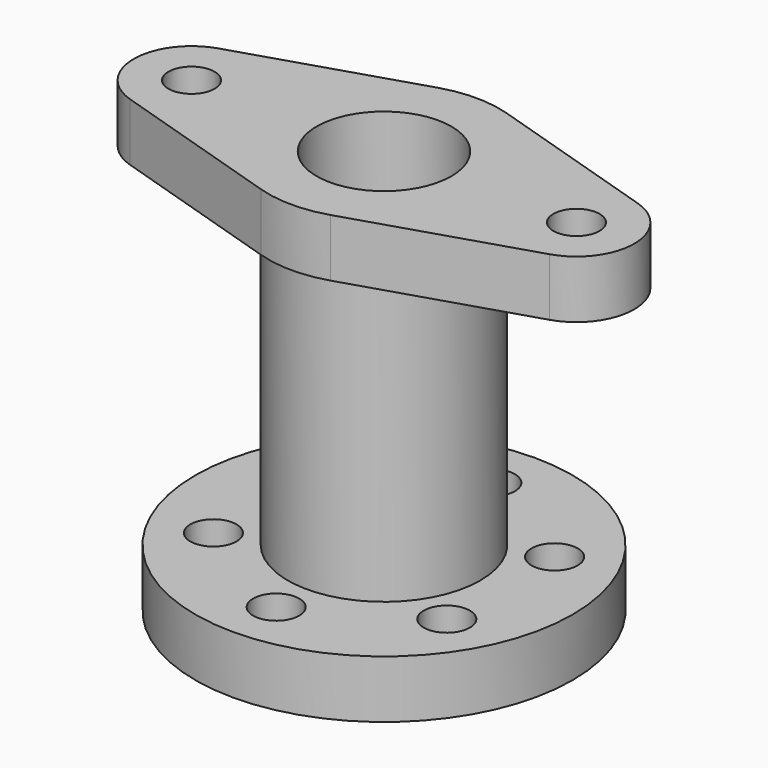
from build123d import *

# Parameters (mm, degrees)
F0_R      = 49
F0_R_2    = 6
F1_DEPTH  = 15
F2_R      = 25.016122
F3_DEPTH  = 75
F4_R      = 6
F5_DEPTH  = 15
F6_R      = 17.5
F7_DEPTH  = 30
F9_R      = 13
F10_DEPTH = 150


with BuildPart() as f1:
    # F0 (on Top) → F1 (new body)
    with BuildSketch(Plane.XY):
        Circle(F0_R)
        with Locations((0, -35)):
            Circle(F0_R_2, mode=Mode.SUBTRACT)
        with Locations((-30.310889, -17.5)):
            Circle(F0_R_2, mode=Mode.SUBTRACT)
        with Locations((30.310889, -17.5)):
            Circle(F0_R_2, mode=Mode.SUBTRACT)
        with Locations((-30.310889, 17.5)):
            Circle(F0_R_2, mode=Mode.SUBTRACT)
        with Locations((0, 35)):
            Circle(F0_R_2, mode=Mode.SUBTRACT)
        with Locations((30.310889, 17.5)):
            Circle(F0_R_2, mode=Mode.SUBTRACT)
    extrude(amount=F1_DEPTH)

    # F2 (on face) → F3 (join)
    with BuildSketch(Plane.XY.offset(15)):
        Circle(F2_R)
    extrude(amount=F3_DEPTH)

    # F4 (on face) → F5 (join)
    with BuildSketch(Plane.XY.offset(90)):
        with BuildLine():
            Line((9, -28.618176), (54.5, -14.309088))
            ThreePointArc((54.5, -14.309088), (65, 0), (54.5, 14.309088))
            Line((54.5, 14.309088), (9, 28.618176))
            ThreePointArc((9, 28.618176), (0, 30), (-9, 28.618176))
            Line((-9, 28.618176), (-54.5, 14.309088))
            ThreePointArc((-54.5, 14.309088), (-65, 0), (-54.5, -14.309088))
            Line((-54.5, -14.309088), (-9, -28.618176))
            ThreePointArc((-9, -28.618176), (0, -30), (9, -28.618176))
        make_face()
        with Locations((-50, 0)):
            Circle(F4_R, mode=Mode.SUBTRACT)
        with Locations((50, 0)):
            Circle(F4_R, mode=Mode.SUBTRACT)
    extrude(amount=F5_DEPTH)


with BuildPart() as f7:
    # F6 (on face) → F7 (new body)
    with BuildSketch(Plane.XY.offset(105)):
        Circle(F6_R)
    extrude(amount=-F7_DEPTH)


with BuildPart() as f1_1:
    add(f1.part)

    # F8: cut F7
    add(f7.part, mode=Mode.SUBTRACT)


with BuildPart() as f10:
    # F9 (on face) → F10 (new body)
    with BuildSketch(Plane.XY.offset(75)):
        Circle(F9_R)
    extrude(amount=-F10_DEPTH)


with BuildPart() as f1_2:
    add(f1_1.part)

    # F11: cut F10
    add(f10.part, mode=Mode.SUBTRACT)


solid = f1_2.part
